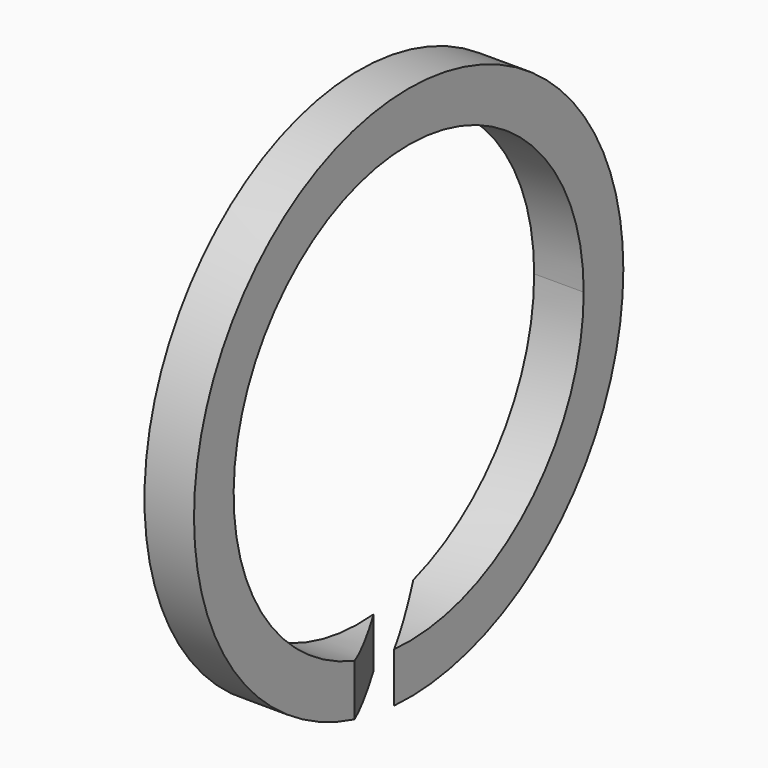
from build123d import *

# Parameters (mm, degrees)
F0_R     = 8.255
F0_R_2   = 6.731
F1_DEPTH = 0.762
F3_DEPTH = 25.4


with BuildPart() as f1:
    # F0 (on Right) → F1 (new body, symmetric)
    with BuildSketch(Plane.YZ):
        Circle(F0_R)
        Circle(F0_R_2, mode=Mode.SUBTRACT)
    extrude(amount=F1_DEPTH, both=True)

    # F2 (on Top) → F3 (cut)
    with BuildSketch(Plane.XY):
        Polygon((-0.875432, 0.754293), (0.914876, -2.346612), (1.266832, -1.432217), (-1.060956, 2.59963), align=None)
    extrude(amount=-F3_DEPTH, mode=Mode.SUBTRACT)


solid = f1.part
